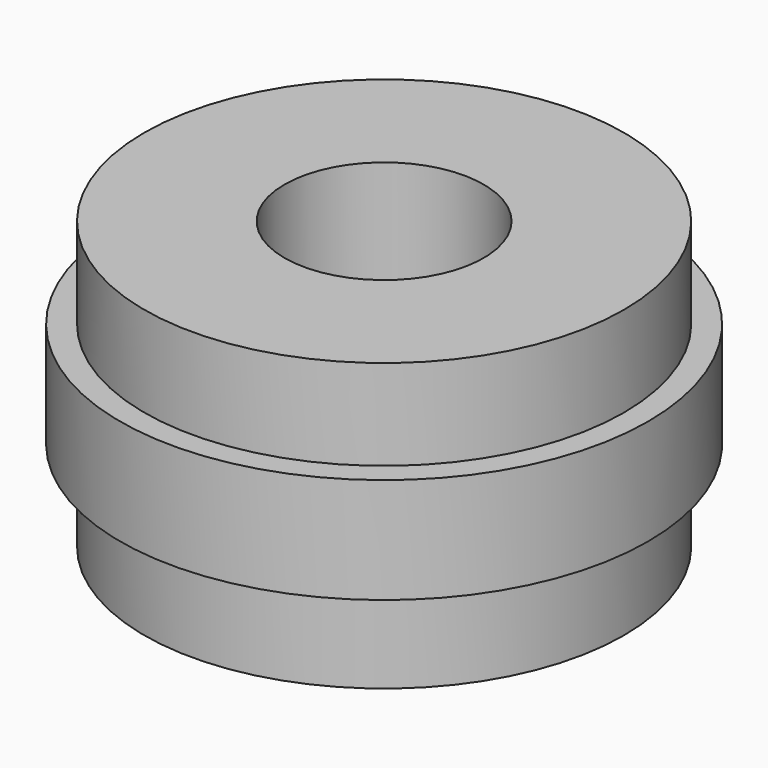
from build123d import *

# Parameters (mm, degrees)
F0_R     = 7.95
F1_DEPTH = 3
F2_R     = 8.75
F3_DEPTH = 3.5
F4_R     = 7.95
F5_DEPTH = 3
F7_D     = 6.6


with BuildPart() as f1:
    # F0 (on Top) → F1 (new body)
    with BuildSketch(Plane.XY):
        Circle(F0_R)
    extrude(amount=F1_DEPTH)

    # F2 (on face) → F3 (join)
    with BuildSketch(Plane(origin=(0, 0, 0), x_dir=(1, 0, 0), z_dir=(0, 0, -1))):
        Circle(F2_R)
    extrude(amount=F3_DEPTH)

    # F4 (on face) → F5 (join)
    with BuildSketch(Plane(origin=(0, 0, -3.5), x_dir=(1, 0, 0), z_dir=(0, 0, -1))):
        Circle(F4_R)
    extrude(amount=F5_DEPTH)

    # F7 (through all)
    with Locations(Plane.XY.offset(3)):
        with Locations((0, 0)):
            Hole(F7_D / 2)


solid = f1.part
